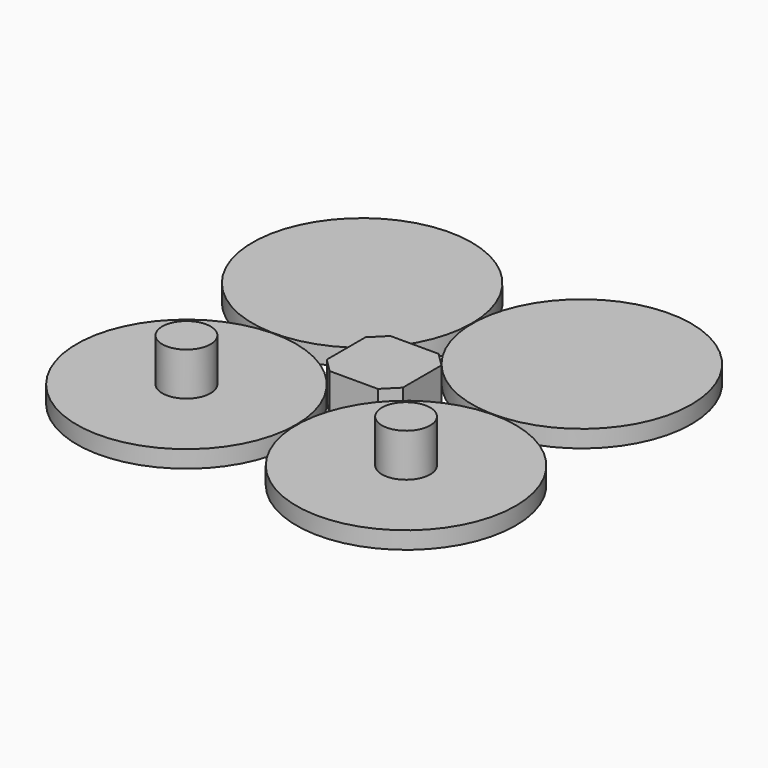
from build123d import *

# Parameters (mm, degrees)
F0_R      = 31.75
F1_DEPTH  = 2.5
F2_R      = 7
F3_DEPTH  = 12.5
F4_R      = 7
F5_DEPTH  = 12.5
F6_R      = 7
F7_DEPTH  = 12.5
F8_R      = 7
F9_DEPTH  = 12.5
F10_DEPTH = 5.5


with BuildPart() as f1:
    # F0 (on Top) → F1 (new body, symmetric)
    with BuildSketch(Plane.XY):
        with Locations((-31.8198051534, -31.8198051534)):
            Circle(F0_R)
    extrude(amount=F1_DEPTH, both=True)


with BuildPart() as f1b:
    # F0 (on Top) → F1, piece 2 (new body, symmetric)
    with BuildSketch(Plane.XY):
        with Locations((-31.8198051534, 31.8198051534)):
            Circle(F0_R)
    extrude(amount=F1_DEPTH, both=True)


with BuildPart() as f1c:
    # F0 (on Top) → F1, piece 3 (new body, symmetric)
    with BuildSketch(Plane.XY):
        with Locations((31.8198051534, 31.8198051534)):
            Circle(F0_R)
    extrude(amount=F1_DEPTH, both=True)


with BuildPart() as f1d:
    # F0 (on Top) → F1, piece 4 (new body, symmetric)
    with BuildSketch(Plane.XY):
        with Locations((31.8198051534, -31.8198051534)):
            Circle(F0_R)
    extrude(amount=F1_DEPTH, both=True)


with BuildPart() as f3:
    # F2 (on face) → F3 (new body)
    with BuildSketch(Plane.XY.offset(2.5)):
        with Locations((-31.8198051534, -31.8198051534)):
            Circle(F2_R)
    extrude(amount=F3_DEPTH)


with BuildPart() as f5:
    # F4 (on face) → F5 (new body)
    with BuildSketch(Plane.XY.offset(2.5)):
        with Locations((31.8198051534, -31.8198051534)):
            Circle(F4_R)
    extrude(amount=F5_DEPTH)


with BuildPart() as f7:
    # F6 (on face) → F7 (new body)
    with BuildSketch(Plane(origin=(0, 0, -2.5), x_dir=(1, 0, 0), z_dir=(0, 0, -1))):
        with Locations((-31.8198051534, -31.8198051534)):
            Circle(F6_R)
    extrude(amount=F7_DEPTH)


with BuildPart() as f9:
    # F8 (on face) → F9 (new body)
    with BuildSketch(Plane(origin=(0, 0, -2.5), x_dir=(1, 0, 0), z_dir=(0, 0, -1))):
        with Locations((31.8198051534, -31.8198051534)):
            Circle(F8_R)
    extrude(amount=F9_DEPTH)


with BuildPart() as f10:
    # F0 (on Top) → F10 (new body, symmetric)
    with BuildSketch(Plane.XY):
        Polygon((11, 7), (7, 11), (-7, 11), (-11, 7), (-11, -7), (-7, -11), (7, -11), (11, -7), align=None)
    extrude(amount=F10_DEPTH, both=True)


solid = Compound([f1.part, f1b.part, f1c.part, f1d.part, f3.part, f5.part, f7.part, f9.part, f10.part])
